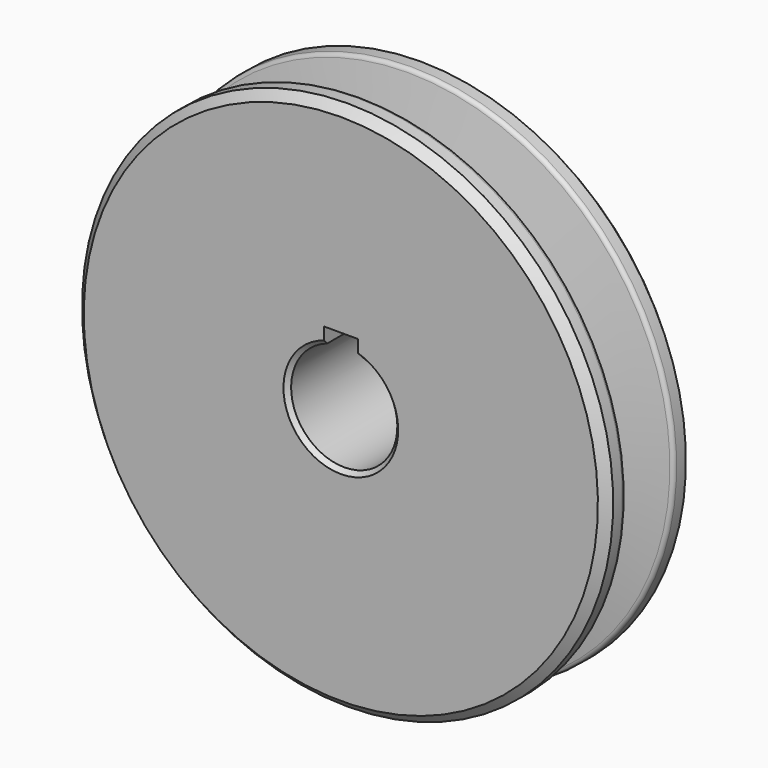
from build123d import *

# Parameters (mm, degrees)
F2_SIZE  = 2
F3_SIZE  = 2
F4_W     = 8
F4_H     = 6.6
F5_DEPTH = 37.401
F6_R     = 3.4
F7_DEPTH = 62.501
F8_R     = 3.4
F9_DEPTH = 62.501
F10_SIZE = 1
F11_SIZE = 2


with BuildPart() as f1:
    # F0 (on Right) → F1 (revolve)
    with BuildSketch(Plane.YZ):
        with BuildLine():
            Line((-12.7, 62.5), (-12.7, 12.5))
            Line((-12.7, 12.5), (12.7, 12.5))
            Line((12.7, 12.5), (24.7, 12.5))
            Line((24.7, 12.5), (24.7, 30))
            Line((24.7, 30), (12.7, 30))
            Line((12.7, 30), (12.7, 62.5))
            Line((12.7, 62.5), (7.969316, 62.5))
            ThreePointArc((7.969316, 62.5), (7.332673, 62.271159), (6.98741, 61.689373))
            Line((6.98741, 61.689373), (3.96875, 46.0375))
            Line((3.96875, 46.0375), (0, 46.0375))
            Line((0, 46.0375), (-3.96875, 46.0375))
            Line((-3.96875, 46.0375), (-6.98741, 61.689373))
            ThreePointArc((-6.98741, 61.689373), (-7.332673, 62.271159), (-7.969316, 62.5))
            Line((-7.969316, 62.5), (-12.7, 62.5))
        make_face()
    revolve(axis=Axis((0, -1.982494, 0), (0, 1, 0)))

    # F2
    f2_edges = [f1.edges().sort_by_distance(p)[0] for p in [
        (0, 12.7, -62.5),
    ]]
    chamfer(f2_edges, length=F2_SIZE)

    # F3
    f3_edges = [f1.edges().sort_by_distance(p)[0] for p in [
        (0, -12.7, -62.5),
    ]]
    chamfer(f3_edges, length=F3_SIZE)

    # F4 (on face) → F5 (cut, through all)
    with BuildSketch(Plane(origin=(0, 24.7, 0), x_dir=(-1, 0, 0), z_dir=(0, 1, 0))):
        with Locations((0, 12.5)):
            Rectangle(F4_W, F4_H)
    extrude(amount=-F5_DEPTH, mode=Mode.SUBTRACT)

    # F6 (on Top) → F7 (cut, through all)
    with BuildSketch(Plane.XY):
        with Locations((0, 18.7)):
            Circle(F6_R)
    extrude(amount=F7_DEPTH, mode=Mode.SUBTRACT)

    # F8 (on Right) → F9 (cut, through all)
    with BuildSketch(Plane.YZ):
        with Locations((18.7, 0)):
            Circle(F8_R)
    extrude(amount=-F9_DEPTH, mode=Mode.SUBTRACT)

    # F10
    f10_edges = [f1.edges().sort_by_distance(p)[0] for p in [
        (0, 24.7, -12.5),
        (0, -12.7, -12.5),
    ]]
    chamfer(f10_edges, length=F10_SIZE)

    # F11
    f11_edges = [f1.edges().sort_by_distance(p)[0] for p in [
        (0, 24.7, -30),
    ]]
    chamfer(f11_edges, length=F11_SIZE)


solid = f1.part
